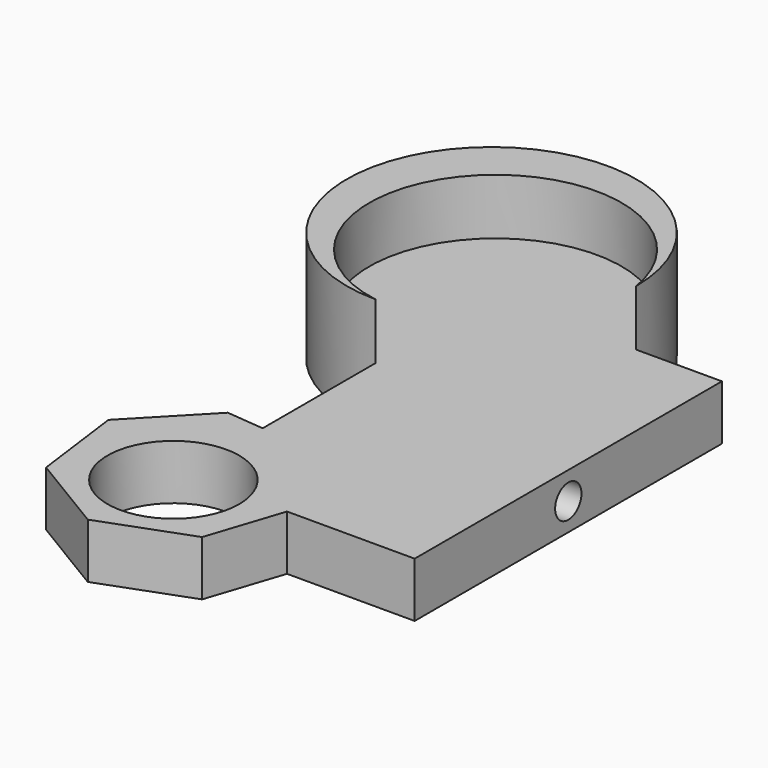
from build123d import *

# Parameters (mm, degrees)
F1_DEPTH = 5
F3_DEPTH = 5.1
F4_R     = 1.5
F5_DEPTH = 8
F6_R     = 6
F7_DEPTH = 25


with BuildPart() as f1:
    # F0 (on Top) → F1 (new body)
    with BuildSketch(Plane.XY):
        with BuildLine():
            Line((24.302487, 12.771593), (16.494151, 12.771593))
            ThreePointArc((16.494151, 12.771593), (-6.025428, 22.099508), (3.302487, -0.420071))
            Line((3.302487, -0.420071), (3.302487, -13.292416))
            Line((3.302487, -13.292416), (3.302487, -22.228407))
            Line((3.302487, -22.228407), (12.669307, -22.228407))
            Line((12.669307, -22.228407), (24.302487, -22.228407))
            Line((24.302487, -22.228407), (24.302487, 12.771593))
        make_face()
        Polygon((3.302487, -22.228407), (3.302487, -13.292416), (-0.130287, -12.969643), (-6.076606, -19.139513), (-4.960277, -27.635384), (2.378083, -32.059691), (10.412538, -29.080841), (12.669307, -22.228407), align=None)
        with BuildLine():
            Line((24.302487, 12.771593), (16.494151, 12.771593))
            ThreePointArc((16.494151, 12.771593), (-6.025428, 22.099508), (3.302487, -0.420071))
            Line((3.302487, -0.420071), (3.302487, -13.292416))
            Line((3.302487, -13.292416), (3.302487, -22.228407))
            Line((3.302487, -22.228407), (12.669307, -22.228407))
            Line((12.669307, -22.228407), (24.302487, -22.228407))
            Line((24.302487, -22.228407), (24.302487, 12.771593))
        make_face()
    extrude(amount=F1_DEPTH)

    # F2 (on face) → F3 (join)
    with BuildSketch(Plane.XY.offset(5)):
        with BuildLine():
            ThreePointArc((3.302487, -0.420071), (-2.989457, 19.063537), (16.494151, 12.771593))
            ThreePointArc((16.494151, 12.771593), (-6.025428, 22.099508), (3.302487, -0.420071))
        make_face()
    extrude(amount=F3_DEPTH)

    # F4 (on face) → F5 (cut)
    with BuildSketch(Plane.YZ.offset(24.302487)):
        with Locations((-4.728407, 2.5)):
            Circle(F4_R)
    extrude(amount=-F5_DEPTH, mode=Mode.SUBTRACT)

    # F6 (on face) → F7 (cut)
    with BuildSketch(Plane.XY.offset(5)):
        with Locations((3.302487, -23.465436)):
            Circle(F6_R)
        with Locations((3.302487, -23.465436)):
            Circle(F6_R)
    extrude(amount=-F7_DEPTH, mode=Mode.SUBTRACT)


solid = f1.part
